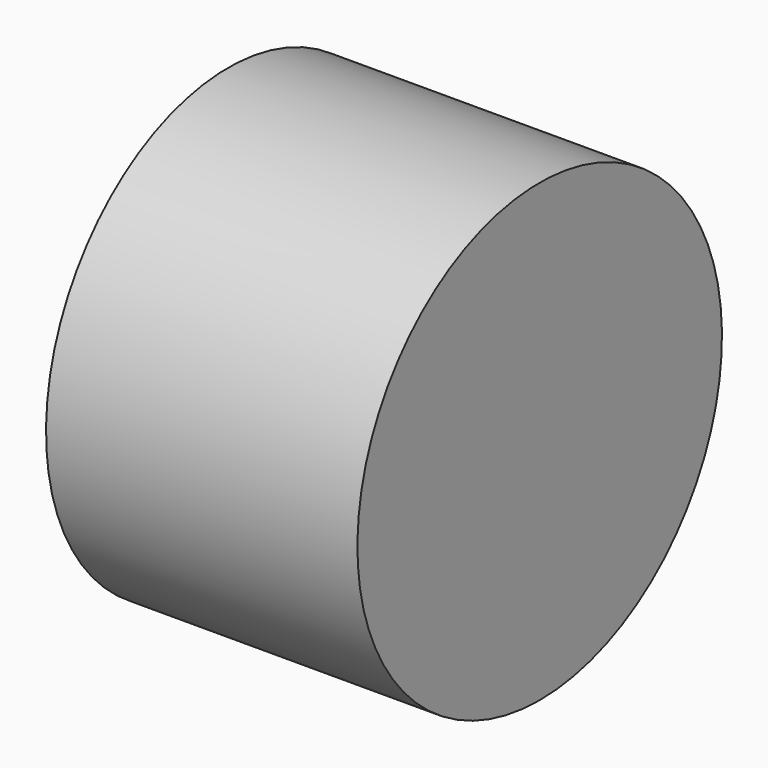
from build123d import *

# Parameters (mm, degrees)
CYLINDER061_R     = 1.25
CYLINDER061_DEPTH = 5
CYLINDER040_R     = 3
CYLINDER040_DEPTH = 4.1


with BuildPart() as b_w008:
    # Cylinder061 → Cylinder061 (new body)
    with BuildSketch(Plane(origin=(2, 26, 26), x_dir=(0, 0, 1), z_dir=(-1, 0, 0))):
        Circle(CYLINDER061_R)
    extrude(amount=CYLINDER061_DEPTH)


with BuildPart() as cut025:
    # Cylinder040 → Cylinder040 (new body)
    with BuildSketch(Plane(origin=(-1, 26, 26), x_dir=(0, 0, -1), z_dir=(1, 0, 0))):
        Circle(CYLINDER040_R)
    extrude(amount=CYLINDER040_DEPTH)

    # Cut025: cut B_W008
    add(b_w008.part, mode=Mode.SUBTRACT)


solid = cut025.part
